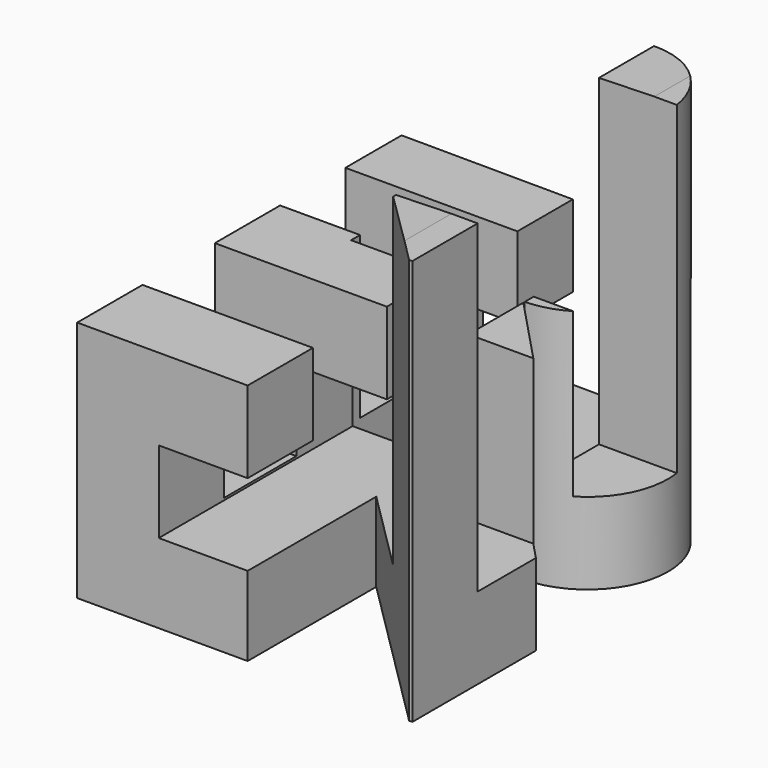
from build123d import *

# Parameters (mm, degrees)
F0_W     = 11.087262
F0_H     = 10
F3_DEPTH = 25
F4_DEPTH = 25
F2_W     = 11.087262
F2_H     = 10
F5_DEPTH = 25


with BuildPart() as f3:
    # F0 (on Front) → F3 (new body, symmetric)
    with BuildSketch(Plane.XZ):
        Polygon((-25, -15), (-25, -25), (16.087262, -24.913052), (16.087262, 15), (16.087262, 25.086948), (6.087262, 24.816517), (6.087262, 15), (6.087262, -15), (-15, -15), (-15, -5), (-15, 5), (-25, 5), (-25, -5), align=None)
        with Locations((-9.456369, 0)):
            Rectangle(F0_W, F0_H)
    extrude(amount=F3_DEPTH, both=True)

    # F1 (on Right) → F4 (intersect, symmetric)
    with BuildSketch(Plane.YZ):
        Polygon((-14.815092, 25.267453), (-24.815092, 25.267453), (-24.815092, -24.732547), (25.184908, -24.732547), (25.184908, 25.267453), (16.27217, 25.354402), (16.27217, -14.732547), (6.27217, -14.732547), (6.27217, 3.407452), (6.27217, 5.267453), (-3.72783, 5.267453), (-3.72783, -14.732547), (-14.815092, -14.732547), align=None)
    extrude(amount=F4_DEPTH, both=True, mode=Mode.INTERSECT)

    # F2 (on Top) → F5 (intersect, symmetric)
    with BuildSketch(Plane.XY):
        with BuildLine():
            Line((5.893564, 24.705363), (-25.193698, 24.888847))
            Line((-25.193698, 24.888847), (-25.193698, -25.111153))
            Line((-25.193698, -25.111153), (-4.106436, -25.111153))
            Line((-4.106436, -25.111153), (-4.106436, -5.111153))
            Line((-4.106436, -5.111153), (15.893564, -25.024205))
            Line((15.893564, -25.024205), (24.806302, -25.111153))
            Line((24.806302, -25.111153), (24.806302, -15.111153))
            Line((24.806302, -15.111153), (5.893564, 4.888847))
            ThreePointArc((5.893564, 4.888847), (15.743514, 14.797105), (5.893564, 24.705363))
        make_face()
        with Locations((-9.650067, 9.888847)):
            Rectangle(F2_W, F2_H, mode=Mode.SUBTRACT)
    extrude(amount=F5_DEPTH, both=True, mode=Mode.INTERSECT)


solid = f3.part
